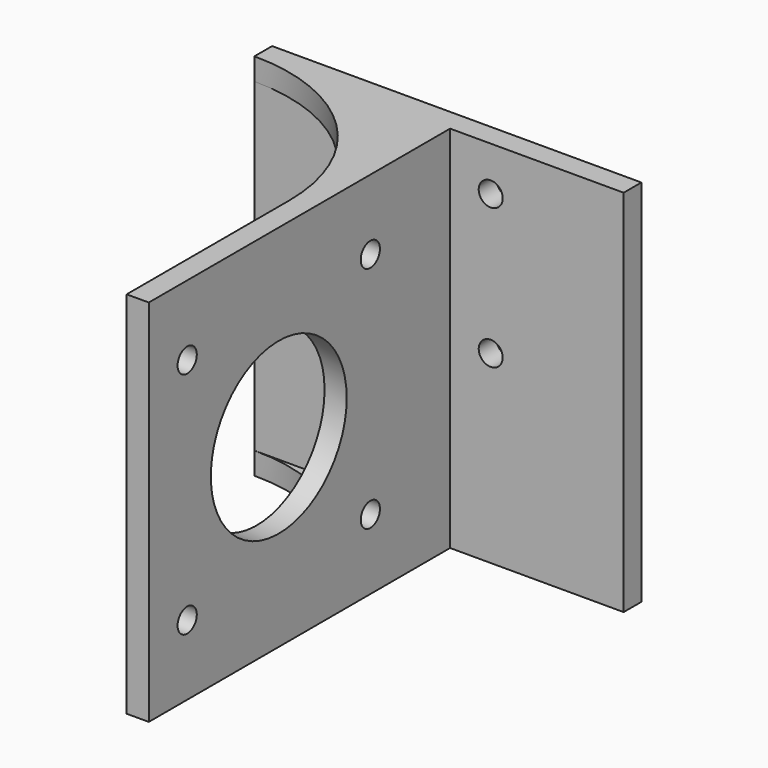
from build123d import *

# Parameters (mm, degrees)
F0_W     = 51
F0_H     = 50
F0_R     = 1.625
F0_R_2   = 11.5
F1_DEPTH = 1.5
F2_W     = 50
F2_H     = 50
F2_R     = 1.625
F3_DEPTH = 3
F6_DEPTH = 3
F7_DEPTH = 3


with BuildPart() as f1:
    # F0 (on Right) → F1 (new body, symmetric)
    with BuildSketch(Plane.YZ):
        with Locations((3.5, 0)):
            Rectangle(F0_W, F0_H)
        with Locations((-15.5, -15.5)):
            Circle(F0_R, mode=Mode.SUBTRACT)
        with Locations((15.5, -15.5)):
            Circle(F0_R, mode=Mode.SUBTRACT)
        Circle(F0_R_2, mode=Mode.SUBTRACT)
        with Locations((-15.5, 15.5)):
            Circle(F0_R, mode=Mode.SUBTRACT)
        with Locations((15.5, 15.5)):
            Circle(F0_R, mode=Mode.SUBTRACT)
    extrude(amount=F1_DEPTH, both=True)

    # F2 (on face) → F3 (join)
    with BuildSketch(Plane(origin=(0, 29, 0), x_dir=(-1, 0, 0), z_dir=(0, 1, 0))):
        Rectangle(F2_W, F2_H)
        with Locations((-7, 0)):
            Circle(F2_R, mode=Mode.SUBTRACT)
        with Locations((-7, 19)):
            Circle(F2_R, mode=Mode.SUBTRACT)
        with Locations((10, 0)):
            Circle(F2_R, mode=Mode.SUBTRACT)
        with Locations((10, 19)):
            Circle(F2_R, mode=Mode.SUBTRACT)
    extrude(amount=F3_DEPTH)

    # F5 (on face) → F6 (join)
    with BuildSketch(Plane.XY.offset(25)):
        with BuildLine():
            ThreePointArc((-25, 29), (-8.382991, 22.117009), (-1.5, 5.5))
            Line((-1.5, 5.5), (-1.5, 29))
            Line((-1.5, 29), (-25, 29))
        make_face()
    extrude(amount=-F6_DEPTH)

    # F4 (on face) → F7 (join)
    with BuildSketch(Plane(origin=(0, 0, -25), x_dir=(1, 0, 0), z_dir=(0, 0, -1))):
        with BuildLine():
            ThreePointArc((-1.5, -5.5), (-8.382991, -22.117009), (-25, -29))
            Line((-25, -29), (-1.5, -29))
            Line((-1.5, -29), (-1.5, -5.5))
        make_face()
    extrude(amount=-F7_DEPTH)


solid = f1.part
